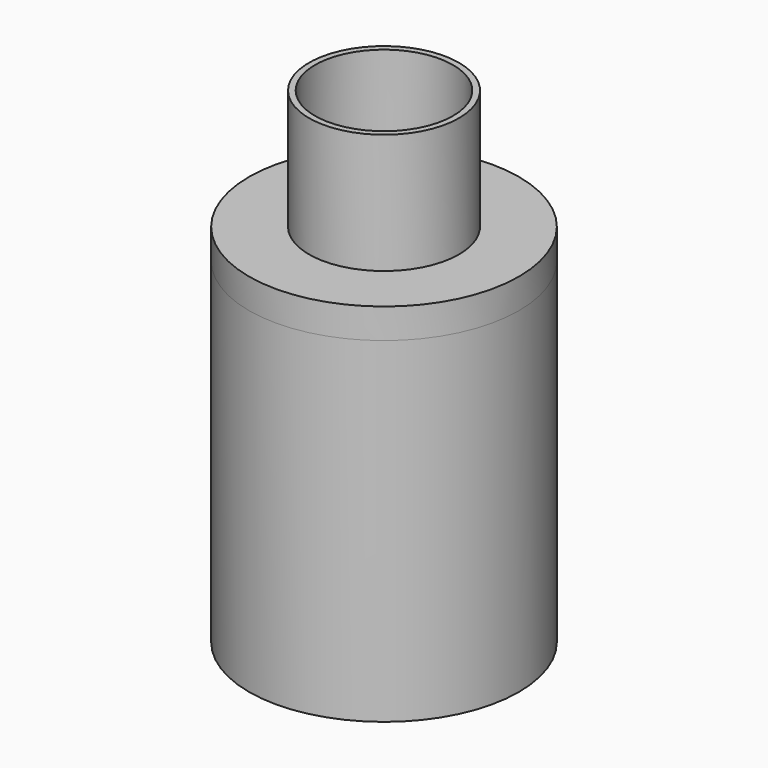
from build123d import *

# Parameters (mm, degrees)
F0_R     = 6.35
F0_R_2   = 5.842
F1_DEPTH = 12.7
F0_R_3   = 11.43
F0_R_4   = 10.9855
F2_DEPTH = 2.54
F3_DEPTH = 30.48


with BuildPart() as f1:
    # F0 (on Top) → F1 (new body)
    with BuildSketch(Plane.XY):
        Circle(F0_R)
        Circle(F0_R_2, mode=Mode.SUBTRACT)
    extrude(amount=F1_DEPTH)

    # F0 (on Top) → F2 (join)
    with BuildSketch(Plane.XY):
        Circle(F0_R_3)
        Circle(F0_R_4, mode=Mode.SUBTRACT)
        Circle(F0_R_4)
        Circle(F0_R, mode=Mode.SUBTRACT)
    extrude(amount=F2_DEPTH)


with BuildPart() as f3:
    # F0 (on Top) → F3 (new body)
    with BuildSketch(Plane.XY):
        Circle(F0_R_3)
        Circle(F0_R_4, mode=Mode.SUBTRACT)
    extrude(amount=F3_DEPTH)


with BuildPart() as f1_1:
    # F4: moved
    add(f1.part.moved(Location((0, 0, 28.4226))))


solid = Compound([f3.part, f1_1.part])
